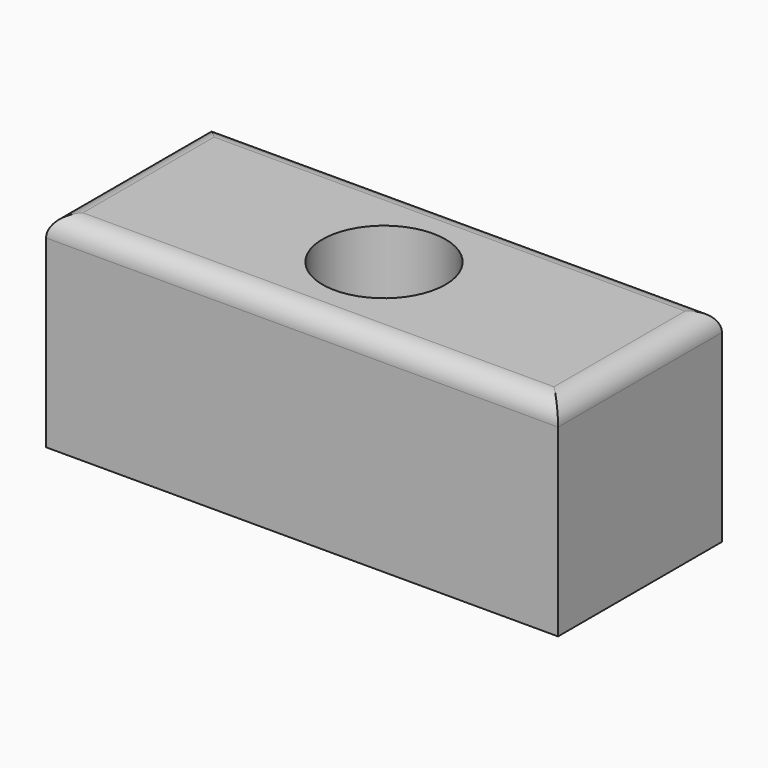
from build123d import *

# Parameters (mm, degrees)
F0_W     = 25
F0_H     = 10
F1_DEPTH = 10
F3_R     = 1
F2_R     = 3
F2_R_2   = 1.5
F4_DEPTH = 10.001


with BuildPart() as f1:
    # F0 (on Top) → F1 (new body)
    with BuildSketch(Plane.XY):
        Rectangle(F0_W, F0_H)
    extrude(amount=F1_DEPTH)

    # F3
    f3_edges = [f1.edges().sort_by_distance(p)[0] for p in [
        (0, 5, 10),
        (12.5, 0, 10),
        (0, -5, 10),
        (-12.5, 0, 10),
    ]]
    fillet(f3_edges, radius=F3_R)

    # F2 (on face) → F4 (cut, through all)
    with BuildSketch(Plane.XY.offset(10)):
        Circle(F2_R)
        Circle(F2_R_2, mode=Mode.SUBTRACT)
        Circle(F2_R_2)
    extrude(amount=-F4_DEPTH, mode=Mode.SUBTRACT)


solid = f1.part
